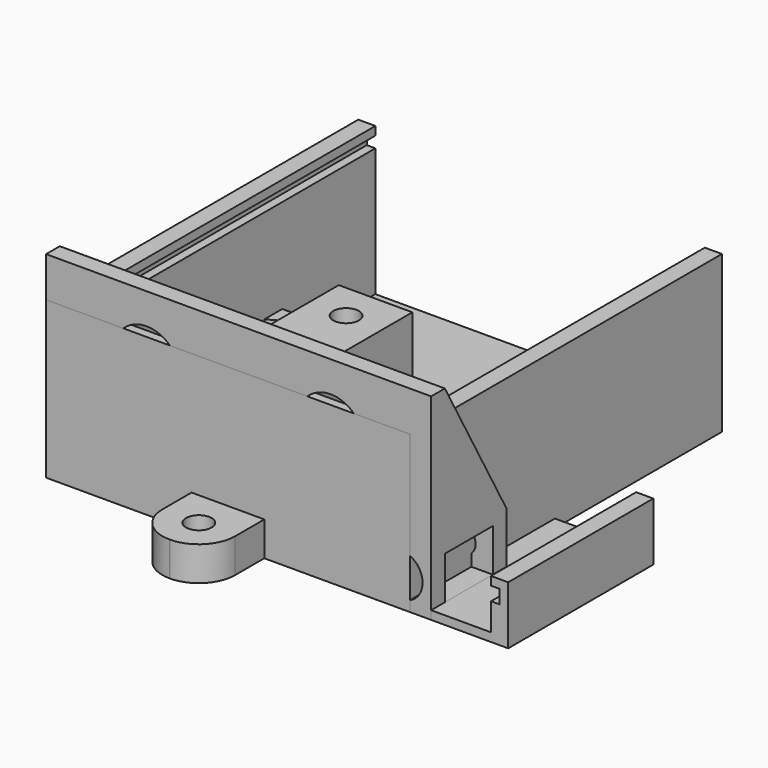
from build123d import *

# Parameters (mm, degrees)
PAD003_DEPTH      = 7.2
PAD002_DEPTH      = 7.2
PAD001_DEPTH      = 2.4
PAD_DEPTH         = 2.4
CYLINDER003_R     = 1.5
CYLINDER003_DEPTH = 5
CYLINDER002_R     = 1.5
CYLINDER002_DEPTH = 5
CYLINDER001_R     = 1.5
CYLINDER001_DEPTH = 9.6
CYLINDER_R        = 1.5
CYLINDER_DEPTH    = 9.6
BOX002_W          = 8.6
BOX002_H          = 32
BOX002_DEPTH      = 4.6
BOX001_W          = 2.8
BOX001_H          = 5
BOX001_DEPTH      = 3.6
BOX_W             = 17.2
BOX_H             = 32
BOX_DEPTH         = 9.6
CYLINDER004_R     = 1.5
CYLINDER004_DEPTH = 4.4
BOX006_W          = 10.5
BOX006_H          = 9
BOX006_DEPTH      = 4.4
FILLET_R          = 4.49
BOX005_W          = 35.5
BOX005_H          = 25
BOX005_DEPTH      = 1.2
BOX003_W          = 33.5
BOX003_H          = 25
BOX003_DEPTH      = 6.5
BOX004_W          = 37.5
BOX004_H          = 25
BOX004_DEPTH      = 7.5
CYLINDER005_R     = 1.5
CYLINDER005_DEPTH = 1
PAD004_DEPTH      = 2.4
BOX010_W          = 7.5
BOX010_H          = 21.2
BOX010_DEPTH      = 2.4
BOX009_W          = 52
BOX009_H          = 21.2
BOX009_DEPTH      = 1.6
BOX008_W          = 50
BOX008_H          = 21.2
BOX008_DEPTH      = 5.8
BOX007_W          = 54
BOX007_H          = 21.2
BOX007_DEPTH      = 6.8
CYLINDER011_R     = 3.9
CYLINDER011_DEPTH = 2
CYLINDER010_R     = 3.9
CYLINDER010_DEPTH = 2
CYLINDER009_R     = 1.5
CYLINDER009_DEPTH = 2
CYLINDER008_R     = 2.5
CYLINDER008_DEPTH = 2
CYLINDER007_R     = 1.5
CYLINDER007_DEPTH = 2
CYLINDER006_R     = 2.5
CYLINDER006_DEPTH = 2
BOX013_W          = 19.5
BOX013_H          = 9
BOX013_DEPTH      = 16
BOX012_W          = 19.5
BOX012_H          = 9
BOX012_DEPTH      = 16
BOX011_W          = 45
BOX011_H          = 7
BOX011_DEPTH      = 5
PAD005_DEPTH      = 45
CYLINDER012_R     = 1.5
CYLINDER012_DEPTH = 4
BOX017_W          = 8.5
BOX017_H          = 8.5
BOX017_DEPTH      = 4
FILLET001_R       = 4.24
BOX016_W          = 40.5
BOX016_H          = 44.6
BOX016_DEPTH      = 1.3
BOX015_W          = 38.5
BOX015_H          = 44.6
BOX015_DEPTH      = 18.3
BOX014_W          = 42.5
BOX014_H          = 45.6
BOX014_DEPTH      = 18.3


with BuildPart() as nut_hole003:
    # Sketch003 → Pad003 (new body)
    with BuildSketch(Plane.XY):
        Polygon((0, 3), (-2.598076, 1.5), (-2.598076, -1.5), (0, -3), (2.598076, -1.5), (2.598076, 1.5), align=None)
    extrude(amount=PAD003_DEPTH)


with BuildPart() as nut_hole003_1:
    # Body003 placement: moved
    add(nut_hole003.part.moved(Location((12.9, 4.3, 0))))


with BuildPart() as nut_hole002:
    # Sketch002 → Pad002 (new body)
    with BuildSketch(Plane.XY):
        Polygon((0, 3), (-2.598076, 1.5), (-2.598076, -1.5), (0, -3), (2.598076, -1.5), (2.598076, 1.5), align=None)
    extrude(amount=PAD002_DEPTH)


with BuildPart() as nut_hole002_1:
    # Body002 placement: moved
    add(nut_hole002.part.moved(Location((12.9, 27.7, 0))))


with BuildPart() as nut_hole001:
    # Sketch001 → Pad001 (new body)
    with BuildSketch(Plane.XY):
        Polygon((0, 3), (-2.598076, 1.5), (-2.598076, -1.5), (0, -3), (2.598076, -1.5), (2.598076, 1.5), align=None)
    extrude(amount=PAD001_DEPTH)


with BuildPart() as nut_hole001_1:
    # Body001 placement: moved
    add(nut_hole001.part.moved(Location((4.3, 27.7, 2.6))))


with BuildPart() as nut_hole:
    # Sketch → Pad (new body)
    with BuildSketch(Plane.XY):
        Polygon((0, 3), (-2.598076, 1.5), (-2.598076, -1.5), (0, -3), (2.598076, -1.5), (2.598076, 1.5), align=None)
    extrude(amount=PAD_DEPTH)


with BuildPart() as nut_hole_1:
    # Body placement: moved
    add(nut_hole.part.moved(Location((4.3, 4.3, 2.6))))


with BuildPart() as screw_hole003:
    # Cylinder003 → Cylinder003 (new body)
    with BuildSketch(Plane(origin=(4.3, 27.7, 0), x_dir=(1, 0, 0), z_dir=(0, 0, 1))):
        Circle(CYLINDER003_R)
    extrude(amount=CYLINDER003_DEPTH)


with BuildPart() as screw_hole002:
    # Cylinder002 → Cylinder002 (new body)
    with BuildSketch(Plane(origin=(4.3, 4.3, 0), x_dir=(1, 0, 0), z_dir=(0, 0, 1))):
        Circle(CYLINDER002_R)
    extrude(amount=CYLINDER002_DEPTH)


with BuildPart() as screw_hole001:
    # Cylinder001 → Cylinder001 (new body)
    with BuildSketch(Plane(origin=(12.9, 27.7, 0), x_dir=(1, 0, 0), z_dir=(0, 0, 1))):
        Circle(CYLINDER001_R)
    extrude(amount=CYLINDER001_DEPTH)


with BuildPart() as screw_hole:
    # Cylinder → Cylinder (new body)
    with BuildSketch(Plane(origin=(12.9, 4.3, 0), x_dir=(1, 0, 0), z_dir=(0, 0, 1))):
        Circle(CYLINDER_R)
    extrude(amount=CYLINDER_DEPTH)


with BuildPart() as hole:
    # Box002 → Box002 (new body)
    with BuildSketch(Plane.XY.offset(5)):
        with Locations((4.3, 16)):
            Rectangle(BOX002_W, BOX002_H)
    extrude(amount=BOX002_DEPTH)


with BuildPart() as corner_hole:
    # Box001 → Box001 (new body)
    with BuildSketch(Plane(origin=(14.4, 0, 0), x_dir=(1, 0, 0), z_dir=(0, 0, 1))):
        with Locations((1.4, 2.5)):
            Rectangle(BOX001_W, BOX001_H)
    extrude(amount=BOX001_DEPTH)


with BuildPart() as right_support:
    # Box → Box (new body)
    with BuildSketch(Plane.XY):
        with Locations((8.6, 16)):
            Rectangle(BOX_W, BOX_H)
    extrude(amount=BOX_DEPTH)

    # Cut: cut corner_hole
    add(corner_hole.part, mode=Mode.SUBTRACT)

    # Cut001: cut hole
    add(hole.part, mode=Mode.SUBTRACT)

    # Cut002: cut screw_hole
    add(screw_hole.part, mode=Mode.SUBTRACT)

    # Cut003: cut screw_hole001
    add(screw_hole001.part, mode=Mode.SUBTRACT)

    # Cut004: cut screw_hole002
    add(screw_hole002.part, mode=Mode.SUBTRACT)

    # Cut005: cut screw_hole003
    add(screw_hole003.part, mode=Mode.SUBTRACT)

    # Cut006: cut nut_hole
    add(nut_hole_1.part, mode=Mode.SUBTRACT)

    # Cut007: cut nut_hole001
    add(nut_hole001_1.part, mode=Mode.SUBTRACT)

    # Cut008: cut nut_hole002
    add(nut_hole002_1.part, mode=Mode.SUBTRACT)

    # Cut009: cut nut_hole003
    add(nut_hole003_1.part, mode=Mode.SUBTRACT)


with BuildPart() as screw_hole004:
    # Cylinder004 → Cylinder004 (new body)
    with BuildSketch(Plane(origin=(-4, 12.5, 7.5), x_dir=(1, 0, 0), z_dir=(0, 0, 1))):
        Circle(CYLINDER004_R)
    extrude(amount=CYLINDER004_DEPTH)


with BuildPart() as support001:
    # Box006 → Box006 (new body)
    with BuildSketch(Plane(origin=(-8.5, 8, 7.5), x_dir=(1, 0, 0), z_dir=(0, 0, 1))):
        with Locations((5.25, 4.5)):
            Rectangle(BOX006_W, BOX006_H)
    extrude(amount=BOX006_DEPTH)

    # Fillet
    fillet_edges = [support001.edges().sort_by_distance(p)[0] for p in [
        (-8.5, 8, 9.7),
        (-8.5, 17, 9.7),
    ]]
    fillet(fillet_edges, radius=FILLET_R)

    # Cut012: cut screw_hole004
    add(screw_hole004.part, mode=Mode.SUBTRACT)


with BuildPart() as hole002:
    # Box005 → Box005 (new body)
    with BuildSketch(Plane(origin=(1, 0, 5), x_dir=(1, 0, 0), z_dir=(0, 0, 1))):
        with Locations((17.75, 12.5)):
            Rectangle(BOX005_W, BOX005_H)
    extrude(amount=BOX005_DEPTH)


with BuildPart() as hole001:
    # Box003 → Box003 (new body)
    with BuildSketch(Plane(origin=(2, 0, 1), x_dir=(1, 0, 0), z_dir=(0, 0, 1))):
        with Locations((16.75, 12.5)):
            Rectangle(BOX003_W, BOX003_H)
    extrude(amount=BOX003_DEPTH)


with BuildPart() as power_supply_support:
    # Box004 → Box004 (new body)
    with BuildSketch(Plane.XY):
        with Locations((18.75, 12.5)):
            Rectangle(BOX004_W, BOX004_H)
    extrude(amount=BOX004_DEPTH)

    # Cut010: cut hole001
    add(hole001.part, mode=Mode.SUBTRACT)

    # Cut011: cut hole002
    add(hole002.part, mode=Mode.SUBTRACT)

    # Fusion: union support001
    add(support001.part)


with BuildPart() as screw_hole005:
    # Cylinder005 → Cylinder005 (new body)
    with BuildSketch(Plane(origin=(19.75, 10.6, 0), x_dir=(1, 0, 0), z_dir=(0, 0, 1))):
        Circle(CYLINDER005_R)
    extrude(amount=CYLINDER005_DEPTH)


with BuildPart() as nut_hole004:
    # Sketch004 → Pad004 (new body)
    with BuildSketch(Plane.XY):
        Polygon((0, 3.1), (-2.684679, 1.55), (-2.684679, -1.55), (0, -3.1), (2.684679, -1.55), (2.684679, 1.55), align=None)
    extrude(amount=PAD004_DEPTH)


with BuildPart() as nut_hole004_1:
    # Body004 placement: moved
    add(nut_hole004.part.moved(Location((19.75, 10.6, 1))))


with BuildPart() as nut_support:
    # Box010 → Box010 (new body)
    with BuildSketch(Plane(origin=(16, 0, 1), x_dir=(1, 0, 0), z_dir=(0, 0, 1))):
        with Locations((3.75, 10.6)):
            Rectangle(BOX010_W, BOX010_H)
    extrude(amount=BOX010_DEPTH)


with BuildPart() as hole004:
    # Box009 → Box009 (new body)
    with BuildSketch(Plane(origin=(1, 0, 4.2), x_dir=(1, 0, 0), z_dir=(0, 0, 1))):
        with Locations((26, 10.6)):
            Rectangle(BOX009_W, BOX009_H)
    extrude(amount=BOX009_DEPTH)


with BuildPart() as hole003:
    # Box008 → Box008 (new body)
    with BuildSketch(Plane(origin=(2, 0, 1), x_dir=(1, 0, 0), z_dir=(0, 0, 1))):
        with Locations((25, 10.6)):
            Rectangle(BOX008_W, BOX008_H)
    extrude(amount=BOX008_DEPTH)


with BuildPart() as voltage_sensor_support:
    # Box007 → Box007 (new body)
    with BuildSketch(Plane.XY):
        with Locations((27, 10.6)):
            Rectangle(BOX007_W, BOX007_H)
    extrude(amount=BOX007_DEPTH)

    # Cut013: cut hole003
    add(hole003.part, mode=Mode.SUBTRACT)

    # Cut014: cut hole004
    add(hole004.part, mode=Mode.SUBTRACT)

    # Fusion001: union nut_support
    add(nut_support.part)

    # Cut015: cut nut_hole004
    add(nut_hole004_1.part, mode=Mode.SUBTRACT)

    # Cut016: cut screw_hole005
    add(screw_hole005.part, mode=Mode.SUBTRACT)


with BuildPart() as screw_hole011:
    # Cylinder011 → Cylinder011 (new body)
    with BuildSketch(Plane(origin=(33.25, 2, 15.5), x_dir=(1, 0, 0), z_dir=(0, -1, 0))):
        Circle(CYLINDER011_R)
    extrude(amount=CYLINDER011_DEPTH)


with BuildPart() as screw_hole010:
    # Cylinder010 → Cylinder010 (new body)
    with BuildSketch(Plane(origin=(11.75, 2, 15.5), x_dir=(1, 0, 0), z_dir=(0, -1, 0))):
        Circle(CYLINDER010_R)
    extrude(amount=CYLINDER010_DEPTH)


with BuildPart() as screw_hole009:
    # Cylinder009 → Cylinder009 (new body)
    with BuildSketch(Plane(origin=(41.5, 11, 3.5), x_dir=(1, 0, 0), z_dir=(0, -1, 0))):
        Circle(CYLINDER009_R)
    extrude(amount=CYLINDER009_DEPTH)


with BuildPart() as screw_hole008:
    # Cylinder008 → Cylinder008 (new body)
    with BuildSketch(Plane(origin=(3.5, 2, 3.5), x_dir=(1, 0, 0), z_dir=(0, -1, 0))):
        Circle(CYLINDER008_R)
    extrude(amount=CYLINDER008_DEPTH)


with BuildPart() as screw_hole007:
    # Cylinder007 → Cylinder007 (new body)
    with BuildSketch(Plane(origin=(3.5, 11, 3.5), x_dir=(1, 0, 0), z_dir=(0, -1, 0))):
        Circle(CYLINDER007_R)
    extrude(amount=CYLINDER007_DEPTH)


with BuildPart() as screw_hole006:
    # Cylinder006 → Cylinder006 (new body)
    with BuildSketch(Plane(origin=(41.5, 2, 3.5), x_dir=(1, 0, 0), z_dir=(0, -1, 0))):
        Circle(CYLINDER006_R)
    extrude(amount=CYLINDER006_DEPTH)


with BuildPart() as hole007:
    # Box013 → Box013 (new body)
    with BuildSketch(Plane(origin=(2, 2, 7), x_dir=(1, 0, 0), z_dir=(0, 0, 1))):
        with Locations((9.75, 4.5)):
            Rectangle(BOX013_W, BOX013_H)
    extrude(amount=BOX013_DEPTH)


with BuildPart() as hole006:
    # Box012 → Box012 (new body)
    with BuildSketch(Plane(origin=(23.5, 2, 7), x_dir=(1, 0, 0), z_dir=(0, 0, 1))):
        with Locations((9.75, 4.5)):
            Rectangle(BOX012_W, BOX012_H)
    extrude(amount=BOX012_DEPTH)


with BuildPart() as hole005:
    # Box011 → Box011 (new body)
    with BuildSketch(Plane(origin=(0, 2, 1), x_dir=(1, 0, 0), z_dir=(0, 0, 1))):
        with Locations((22.5, 3.5)):
            Rectangle(BOX011_W, BOX011_H)
    extrude(amount=BOX011_DEPTH)


with BuildPart() as wires_support:
    # Sketch005 → Pad005 (new body)
    with BuildSketch(Plane.YZ):
        Polygon((0, 0), (11, 0), (11, 7), (2, 23), (0, 23), align=None)
    extrude(amount=PAD005_DEPTH)

    # Cut017: cut hole005
    add(hole005.part, mode=Mode.SUBTRACT)

    # Cut018: cut hole006
    add(hole006.part, mode=Mode.SUBTRACT)

    # Cut019: cut hole007
    add(hole007.part, mode=Mode.SUBTRACT)

    # Cut020: cut screw_hole006
    add(screw_hole006.part, mode=Mode.SUBTRACT)

    # Cut021: cut screw_hole007
    add(screw_hole007.part, mode=Mode.SUBTRACT)

    # Cut022: cut screw_hole008
    add(screw_hole008.part, mode=Mode.SUBTRACT)

    # Cut023: cut screw_hole009
    add(screw_hole009.part, mode=Mode.SUBTRACT)

    # Cut024: cut screw_hole010
    add(screw_hole010.part, mode=Mode.SUBTRACT)

    # Cut025: cut screw_hole011
    add(screw_hole011.part, mode=Mode.SUBTRACT)


with BuildPart() as screw_hole012:
    # Cylinder012 → Cylinder012 (new body)
    with BuildSketch(Plane(origin=(4.25, 4.25, 0), x_dir=(1, 0, 0), z_dir=(0, 0, 1))):
        Circle(CYLINDER012_R)
    extrude(amount=CYLINDER012_DEPTH)


with BuildPart() as support004:
    # Box017 → Box017 (new body)
    with BuildSketch(Plane.XY):
        with Locations((4.25, 4.25)):
            Rectangle(BOX017_W, BOX017_H)
    extrude(amount=BOX017_DEPTH)

    # Cut028: cut screw_hole012
    add(screw_hole012.part, mode=Mode.SUBTRACT)

    # Fillet001
    fillet001_edges = [support004.edges().sort_by_distance(p)[0] for p in [
        (0, 0, 2),
        (8.5, 0, 2),
    ]]
    fillet(fillet001_edges, radius=FILLET001_R)


with BuildPart() as support004_1:
    # Fillet001 placement: moved
    add(support004.part.moved(Location((17, -8.5, 0))))


with BuildPart() as obj1:
    # Box016 → Box016 (new body)
    with BuildSketch(Plane(origin=(1, 1, 16), x_dir=(1, 0, 0), z_dir=(0, 0, 1))):
        with Locations((20.25, 22.3)):
            Rectangle(BOX016_W, BOX016_H)
    extrude(amount=BOX016_DEPTH)


with BuildPart() as hole008:
    # Box015 → Box015 (new body)
    with BuildSketch(Plane(origin=(2, 1, 1), x_dir=(1, 0, 0), z_dir=(0, 0, 1))):
        with Locations((19.25, 22.3)):
            Rectangle(BOX015_W, BOX015_H)
    extrude(amount=BOX015_DEPTH)


with BuildPart() as power_supply_support_v2:
    # Box014 → Box014 (new body)
    with BuildSketch(Plane.XY):
        with Locations((21.25, 22.8)):
            Rectangle(BOX014_W, BOX014_H)
    extrude(amount=BOX014_DEPTH)

    # Cut026: cut hole008
    add(hole008.part, mode=Mode.SUBTRACT)

    # Cut027: cut obj1
    add(obj1.part, mode=Mode.SUBTRACT)

    # Fusion002: union support004
    add(support004_1.part)


solid = Compound([right_support.part, power_supply_support.part, voltage_sensor_support.part, wires_support.part, power_supply_support_v2.part])
